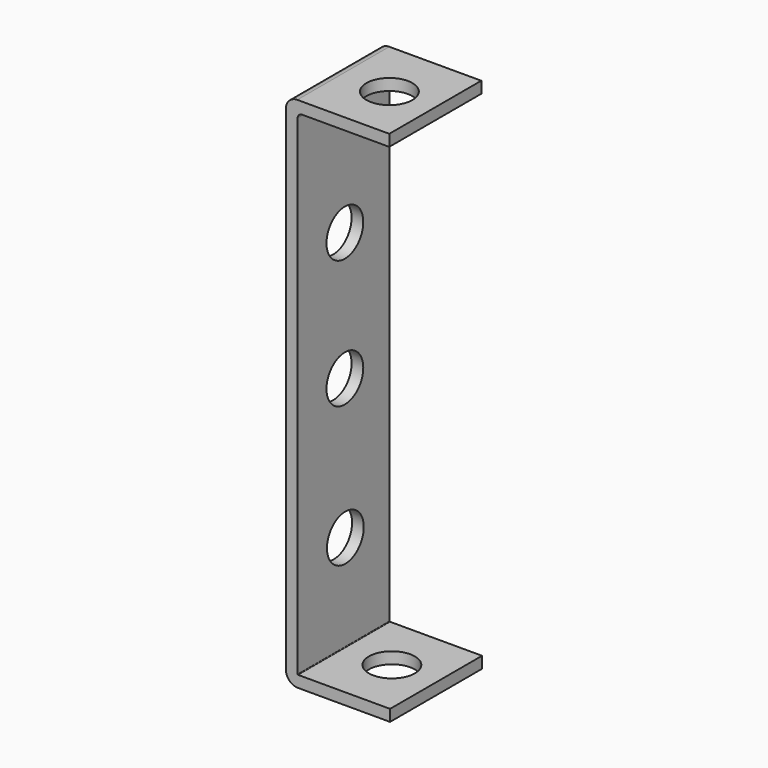
from build123d import *

# Parameters (mm, degrees)
CYLINDER030_R               = 2
CYLINDER030_DEPTH           = 10
CYLINDER030_PITCH_ANGLE     = 90
CYLINDER030_PLACEMENT_ANGLE = 7e-06
CYLINDER031_R               = 2
CYLINDER031_DEPTH           = 10
CYLINDER031_PITCH_ANGLE     = 90
CYLINDER031_PLACEMENT_ANGLE = 7e-06
CYLINDER026_R               = 2
CYLINDER026_DEPTH           = 2
CYLINDER026_ROLL_ANGLE      = -88.507054
CYLINDER026_PITCH_ANGLE     = -87.01751
CYLINDER026_PLACEMENT_ANGLE = -92.244015
CYLINDER028_R               = 2
CYLINDER028_DEPTH           = 2
CYLINDER028_PLACEMENT_ANGLE = 90.00001
CYLINDER029_R               = 2
CYLINDER029_DEPTH           = 2
CYLINDER029_ROLL_ANGLE      = 90
CYLINDER027_R               = 2
CYLINDER027_DEPTH           = 2
CYLINDER027_ROLL_ANGLE      = 90
CYLINDER025_R               = 2
CYLINDER025_DEPTH           = 2
CYLINDER025_ROLL_ANGLE      = -88.507054
CYLINDER025_PITCH_ANGLE     = -87.01751
CYLINDER025_PLACEMENT_ANGLE = -92.244015
PAD006_DEPTH                = 10
CUT023_PITCH_ANGLE          = 90
CUT023_PLACEMENT_ANGLE      = -89.999993


with BuildPart() as cylinder030:
    # Cylinder030 → Cylinder030 (new body)
    with BuildSketch(Plane.XY):
        Circle(CYLINDER030_R)
    extrude(amount=CYLINDER030_DEPTH)


with BuildPart() as cylinder030_1:
    # Cylinder030 pitch: moved
    add(cylinder030.part.rotate(Axis((0, 0, 0), (0, 1, 0)), CYLINDER030_PITCH_ANGLE))


with BuildPart() as cylinder030_2:
    # Cylinder030 placement: moved
    add(cylinder030_1.part.moved(Location((15.49, 3.9, 4.87))).rotate(Axis((15.49, 3.9, 4.87), (0, 0, 1)), CYLINDER030_PLACEMENT_ANGLE))


with BuildPart() as cylinder031:
    # Cylinder031 → Cylinder031 (new body)
    with BuildSketch(Plane.XY):
        Circle(CYLINDER031_R)
    extrude(amount=CYLINDER031_DEPTH)


with BuildPart() as cylinder031_1:
    # Cylinder031 pitch: moved
    add(cylinder031.part.rotate(Axis((0, 0, 0), (0, 1, 0)), CYLINDER031_PITCH_ANGLE))


with BuildPart() as cylinder031_2:
    # Cylinder031 placement: moved
    add(cylinder031_1.part.moved(Location((-28.4147, 3.9, 5.14))).rotate(Axis((-28.4147, 3.9, 5.14), (0, 0, 1)), CYLINDER031_PLACEMENT_ANGLE))


with BuildPart() as cylinder026:
    # Cylinder026 → Cylinder026 (new body)
    with BuildSketch(Plane.XY):
        Circle(CYLINDER026_R)
    extrude(amount=CYLINDER026_DEPTH)


with BuildPart() as cylinder026_1:
    # Cylinder026 roll: moved
    add(cylinder026.part.rotate(Axis((0, 0, 0), (1, 0, 0)), CYLINDER026_ROLL_ANGLE))


with BuildPart() as cylinder026_2:
    # Cylinder026 pitch: moved
    add(cylinder026_1.part.rotate(Axis((0, 0, 0), (0, 1, 0)), CYLINDER026_PITCH_ANGLE))


with BuildPart() as cylinder026_3:
    # Cylinder026 placement: moved
    add(cylinder026_2.part.moved(Location((-26, 5.29, 4.9))).rotate(Axis((-26, 5.29, 4.9), (0, 0, 1)), CYLINDER026_PLACEMENT_ANGLE))


with BuildPart() as cylinder028:
    # Cylinder028 → Cylinder028 (new body)
    with BuildSketch(Plane.XY):
        Circle(CYLINDER028_R)
    extrude(amount=CYLINDER028_DEPTH)


with BuildPart() as cylinder028_1:
    # Cylinder028 placement: moved
    add(cylinder028.part.moved(Location((-11.1555, 0, 4.86401))).rotate(Axis((-11.1555, 0, 4.86401), (1, 0, 0)), CYLINDER028_PLACEMENT_ANGLE))


with BuildPart() as cylinder029:
    # Cylinder029 → Cylinder029 (new body)
    with BuildSketch(Plane.XY):
        Circle(CYLINDER029_R)
    extrude(amount=CYLINDER029_DEPTH)


with BuildPart() as cylinder029_1:
    # Cylinder029 roll: moved
    add(cylinder029.part.rotate(Axis((0, 0, 0), (1, 0, 0)), CYLINDER029_ROLL_ANGLE))


with BuildPart() as cylinder029_2:
    # Cylinder029 placement: moved
    add(cylinder029_1.part.moved(Location((0, 0, 4.86401))))


with BuildPart() as cylinder027:
    # Cylinder027 → Cylinder027 (new body)
    with BuildSketch(Plane.XY):
        Circle(CYLINDER027_R)
    extrude(amount=CYLINDER027_DEPTH)


with BuildPart() as cylinder027_1:
    # Cylinder027 roll: moved
    add(cylinder027.part.rotate(Axis((0, 0, 0), (1, 0, 0)), CYLINDER027_ROLL_ANGLE))


with BuildPart() as cylinder027_2:
    # Cylinder027 placement: moved
    add(cylinder027_1.part.moved(Location((12.2129, 0, 4.81114))))


with BuildPart() as cylinder025:
    # Cylinder025 → Cylinder025 (new body)
    with BuildSketch(Plane.XY):
        Circle(CYLINDER025_R)
    extrude(amount=CYLINDER025_DEPTH)


with BuildPart() as cylinder025_1:
    # Cylinder025 roll: moved
    add(cylinder025.part.rotate(Axis((0, 0, 0), (1, 0, 0)), CYLINDER025_ROLL_ANGLE))


with BuildPart() as cylinder025_2:
    # Cylinder025 pitch: moved
    add(cylinder025_1.part.rotate(Axis((0, 0, 0), (0, 1, 0)), CYLINDER025_PITCH_ANGLE))


with BuildPart() as cylinder025_3:
    # Cylinder025 placement: moved
    add(cylinder025_2.part.moved(Location((25, 5.38, 4.9))).rotate(Axis((25, 5.38, 4.9), (0, 0, 1)), CYLINDER025_PLACEMENT_ANGLE))


with BuildPart() as cut023:
    # Sketch007 → Pad006 (new body)
    with BuildSketch(Plane.XY):
        with BuildLine():
            Line((20.546084, -1.208272), (-22.415471, -1.208272))
            ThreePointArc((-23.400725, -0.223018), (-23.112151, -0.919698), (-22.415471, -1.208272))
            Line((-23.400725, 7.776982), (-23.400725, -0.223018))
            Line((-23.400725, 7.776982), (-22.400725, 7.776982))
            Line((-22.400725, 7.776982), (-22.400725, 0.197829))
            ThreePointArc((-22.400725, 0.197829), (-22.286166, -0.07874), (-22.009596, -0.193299))
            Line((-22.009596, -0.193299), (20.555186, -0.193299))
            ThreePointArc((20.555186, -0.193299), (20.586324, -0.180401), (20.599222, -0.149263))
            Line((20.599222, 7.844865), (20.599222, -0.149263))
            Line((21.599222, 7.844865), (20.599222, 7.844865))
            Line((21.599222, 7.844865), (21.599222, -0.155135))
            ThreePointArc((20.546084, -1.208272), (21.290765, -0.899815), (21.599222, -0.155135))
        make_face()
    extrude(amount=PAD006_DEPTH)

    # Cut005: cut Cylinder025
    add(cylinder025_3.part, mode=Mode.SUBTRACT)

    # Cut006: cut Cylinder027
    add(cylinder027_2.part, mode=Mode.SUBTRACT)

    # Cut007: cut Cylinder029
    add(cylinder029_2.part, mode=Mode.SUBTRACT)

    # Cut008: cut Cylinder028
    add(cylinder028_1.part, mode=Mode.SUBTRACT)

    # Cut009: cut Cylinder026
    add(cylinder026_3.part, mode=Mode.SUBTRACT)

    # Cut018: cut Cylinder031
    add(cylinder031_2.part, mode=Mode.SUBTRACT)

    # Cut023: cut Cylinder030
    add(cylinder030_2.part, mode=Mode.SUBTRACT)


with BuildPart() as cut023_1:
    # Cut023 pitch: moved
    add(cut023.part.rotate(Axis((0, 0, 0), (0, 1, 0)), CUT023_PITCH_ANGLE))


with BuildPart() as cut023_2:
    # Cut023 placement: moved
    add(cut023_1.part.moved(Location((-399.311562, 22.23945, -99.805748))).rotate(Axis((-399.311562, 22.23945, -99.805748), (0, 0, 1)), CUT023_PLACEMENT_ANGLE))


solid = cut023_2.part
